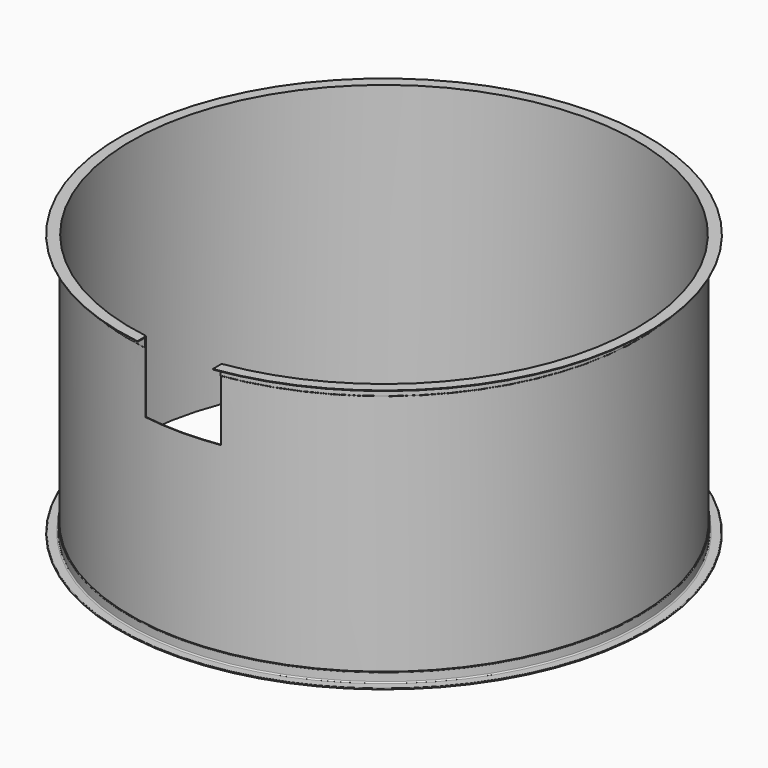
from build123d import *

# Parameters (mm, degrees)
SKETCH001_W   = 550
SKETCH001_H   = 520
EXTRUDE_DEPTH = 2500
SKETCH_W      = 5
SKETCH_H      = 1920


with BuildPart() as extrude_body:
    # Sketch001 → Extrude (new body)
    with BuildSketch(Plane.XZ):
        with Locations((0, 1660)):
            Rectangle(SKETCH001_W, SKETCH001_H)
    extrude(amount=EXTRUDE_DEPTH)


with BuildPart() as revolve001:
    # AngleSteel → Revolve001 (revolve)
    with BuildSketch(Plane(origin=(1870.58985, 0, 20.58985), x_dir=(1, 0, 0), z_dir=(0, 1, 0))):
        with BuildLine():
            Line((-20.58985, 20.58985), (-20.58985, -54.41015))
            Line((-20.58985, -54.41015), (-18.58985, -54.41015))
            ThreePointArc((-18.58985, -54.41015), (-15.761423, -53.238577), (-14.58985, -50.41015))
            Line((-14.58985, -50.41015), (-14.58985, 6.08985))
            ThreePointArc((-14.58985, 6.08985), (-12.100258, 12.100258), (-6.08985, 14.58985))
            Line((-6.08985, 14.58985), (50.41015, 14.58985))
            ThreePointArc((50.41015, 14.58985), (53.238577, 15.761423), (54.41015, 18.58985))
            Line((54.41015, 18.58985), (54.41015, 20.58985))
            Line((54.41015, 20.58985), (-20.58985, 20.58985))
        make_face()
    revolve(axis=Axis((0, 0, 0), (0, 0, 1)))


with BuildPart() as revolve002:
    # AngleSteel001 → Revolve002 (revolve)
    with BuildSketch(Plane(origin=(1870.58985, 0, 1899.41015), x_dir=(1, 0, 0), z_dir=(0, 1, 0))):
        with BuildLine():
            Line((-20.58985, -20.58985), (54.41015, -20.58985))
            Line((54.41015, -20.58985), (54.41015, -18.58985))
            ThreePointArc((54.41015, -18.58985), (53.238577, -15.761423), (50.41015, -14.58985))
            Line((50.41015, -14.58985), (-6.08985, -14.58985))
            ThreePointArc((-6.08985, -14.58985), (-12.100258, -12.100258), (-14.58985, -6.08985))
            Line((-14.58985, -6.08985), (-14.58985, 50.41015))
            ThreePointArc((-14.58985, 50.41015), (-15.761423, 53.238577), (-18.58985, 54.41015))
            Line((-18.58985, 54.41015), (-20.58985, 54.41015))
            Line((-20.58985, 54.41015), (-20.58985, -20.58985))
        make_face()
    revolve(axis=Axis((0, 0, 0), (0, 0, 1)))


with BuildPart() as cut:
    # Sketch → Revolve (revolve)
    with BuildSketch(Plane.XZ):
        with Locations((1847.5, 960)):
            Rectangle(SKETCH_W, SKETCH_H)
    revolve(axis=Axis((0, 0, 0), (0, 0, 1)))

    # Fusion: union Revolve001, Revolve002
    add(revolve001.part)
    add(revolve002.part)

    # Cut: cut Extrude body
    add(extrude_body.part, mode=Mode.SUBTRACT)


solid = cut.part
